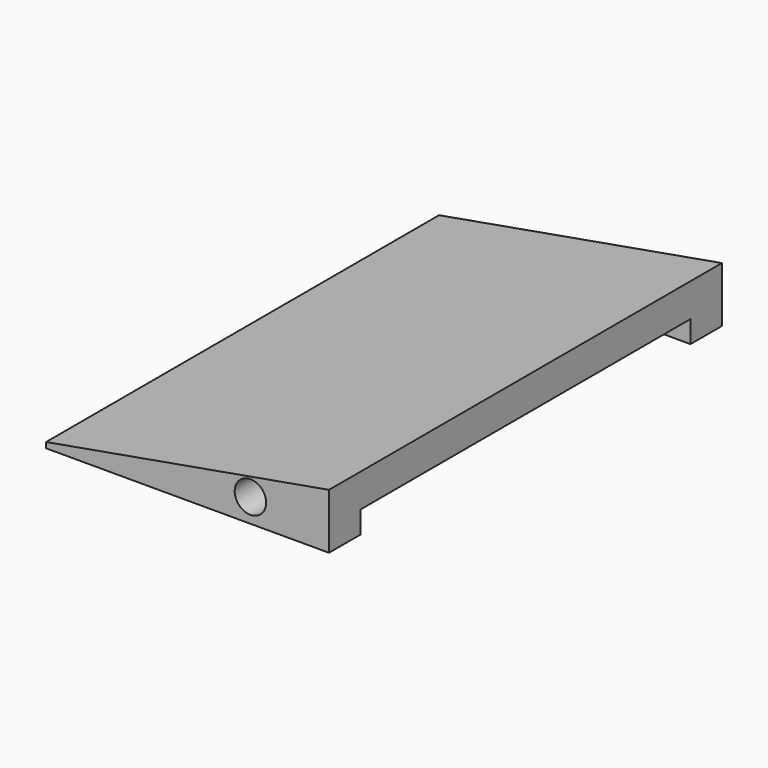
from build123d import *

# Parameters (mm, degrees)
CYLINDER_R             = 4
CYLINDER_DEPTH         = 125
BOX003_W               = 8
BOX003_H               = 125
BOX003_DEPTH           = 2
BOX002_W               = 90
BOX002_H               = 125
BOX002_DEPTH           = 50
BOX002_PLACEMENT_ANGLE = 10
BOX001_W               = 85
BOX001_H               = 105
BOX001_DEPTH           = 13
BOX001_PLACEMENT_ANGLE = 356
BOX_W                  = 80
BOX_H                  = 125
BOX_DEPTH              = 50


with BuildPart() as mount_hole:
    # Cylinder → Cylinder (new body)
    with BuildSketch(Plane(origin=(60, 0, 6), x_dir=(1, 0, 0), z_dir=(0, 1, 0))):
        Circle(CYLINDER_R)
    extrude(amount=CYLINDER_DEPTH)


with BuildPart() as edge_remove:
    # Box003 → Box003 (new body)
    with BuildSketch(Plane.XY):
        with Locations((4, 62.5)):
            Rectangle(BOX003_W, BOX003_H)
    extrude(amount=BOX003_DEPTH)


with BuildPart() as guide_cutout:
    # Box002 → Box002 (new body)
    with BuildSketch(Plane.XY):
        with Locations((45, 62.5)):
            Rectangle(BOX002_W, BOX002_H)
    extrude(amount=BOX002_DEPTH)


with BuildPart() as guide_cutout_1:
    # Box002 placement: moved
    add(guide_cutout.part.rotate(Axis((0, 0, 0), (0, -1, 0)), BOX002_PLACEMENT_ANGLE))


with BuildPart() as belt_cutout:
    # Box001 → Box001 (new body)
    with BuildSketch(Plane.XY):
        with Locations((42.5, 52.5)):
            Rectangle(BOX001_W, BOX001_H)
    extrude(amount=BOX001_DEPTH)


with BuildPart() as belt_cutout_1:
    # Box001 placement: moved
    add(belt_cutout.part.moved(Location((0, 10, -13))).rotate(Axis((0, 10, -13), (0, 1, 0)), BOX001_PLACEMENT_ANGLE))


with BuildPart() as cut003:
    # Box → Box (new body)
    with BuildSketch(Plane.XY):
        with Locations((40, 62.5)):
            Rectangle(BOX_W, BOX_H)
    extrude(amount=BOX_DEPTH)

    # Cut: cut belt_cutout
    add(belt_cutout_1.part, mode=Mode.SUBTRACT)

    # Cut001: cut guide_cutout
    add(guide_cutout_1.part, mode=Mode.SUBTRACT)

    # Cut002: cut edge_remove
    add(edge_remove.part, mode=Mode.SUBTRACT)

    # Cut003: cut mount_hole
    add(mount_hole.part, mode=Mode.SUBTRACT)


solid = cut003.part
